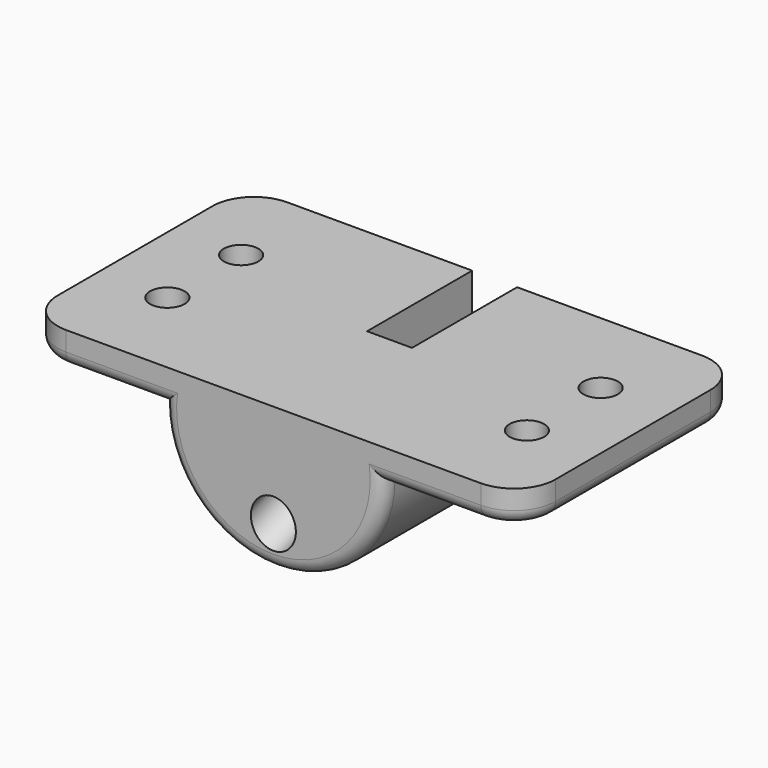
from build123d import *

# Parameters (mm, degrees)
F2_DEPTH = 20
F4_R     = 1.625
F7_DEPTH = 3
F8_R     = 1.25
F9_DEPTH = 2.4010001
F10_R    = 3
F11_R    = 1


with BuildPart() as f2:
    # F1 (on Front) → F2 (new body)
    with BuildSketch(Plane.XZ):
        with BuildLine():
            Line((18, 0), (0, 0))
            Line((0, 0), (-18, 0))
            Line((-18, 0), (-18, -2.4))
            Line((-18, -2.4), (-8, -2.4))
            ThreePointArc((-8, -2.4), (0, -10.4), (8, -2.4))
            Line((8, -2.4), (18, -2.4))
            Line((18, -2.4), (18, 0))
        make_face()
    extrude(amount=F2_DEPTH)

    # F5: sweep along a path in F3
    with BuildLine(Plane.YZ) as f5_path:
        Line((0, -3), (-5.1303021499, -3))
        ThreePointArc((-5.1303021499, -3), (-7.7350248149, -3.2278837048), (-10.2606042998, -3.9046106882))
        Line((-10.2606042998, -3.9046106882), (-24.8597601286, -9.2182688553))
    # F4 (on face) → F5 (sweep, cut)
    with BuildSketch(Plane(origin=(0, 0, 0), x_dir=(-1, 0, 0), z_dir=(0, 1, 0))):
        with Locations((0, -3)):
            Circle(F4_R)
    sweep(path=f5_path.line, mode=Mode.SUBTRACT)

    # F6 (on face) → F7 (cut)
    with BuildSketch(Plane.XY):
        Polygon((1.625, -9.5), (1.625, -5.1303021499), (1.625, 0), (-1.625, 0), (-1.625, -5.1303021499), (-1.625, -9.5), align=None)
    extrude(amount=-F7_DEPTH, mode=Mode.SUBTRACT)

    # F8 (on face) → F9 (cut, through all)
    with BuildSketch(Plane(origin=(0, 0, -2.4), x_dir=(1, 0, 0), z_dir=(0, 0, -1))):
        with Locations((13, 13.3333333333)):
            Circle(F8_R)
        with Locations((13, 6.6666666667)):
            Circle(F8_R)
        with Locations((-13, 13.3333333333)):
            Circle(F8_R)
        with Locations((-13, 6.6666666667)):
            Circle(F8_R)
    extrude(amount=-F9_DEPTH, mode=Mode.SUBTRACT)

    # F10
    f10_edges = [f2.edges().sort_by_distance(p)[0] for p in [
        (18, -20, -1.2),
        (18, 0, -1.2),
        (-18, -20, -1.2),
        (-18, 0, -1.2),
    ]]
    fillet(f10_edges, radius=F10_R)

    # F11
    f11_edges = [f2.edges().sort_by_distance(p)[0] for p in [
        (0, -20, -10.4),
        (-11.5, -20, -2.4),
        (11.5, -20, -2.4),
        (0, 0, -10.4),
    ]]
    fillet(f11_edges, radius=F11_R)


solid = f2.part
